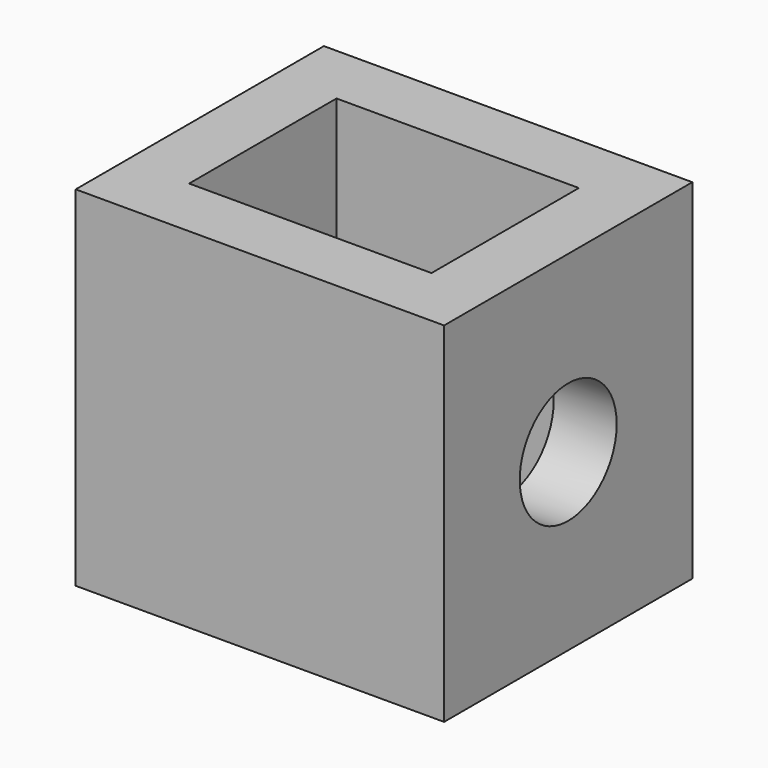
from build123d import *

# Parameters (mm, degrees)
F0_W     = 76
F0_H     = 54
F0_H_2   = 18
F1_DEPTH = 64
F2_T     = -13
F3_R     = 12.5
F4_DEPTH = 103.3


with BuildPart() as f1:
    # F0 (on Front) → F1 (new body)
    with BuildSketch(Plane.XZ):
        with Locations((1.435856, 13.840802)):
            Rectangle(F0_W, F0_H)
        with Locations((1.435856, -22.159198)):
            Rectangle(F0_W, F0_H_2)
    extrude(amount=-F1_DEPTH)

    # F2
    f2_openings = [f1.faces().sort_by_distance(p)[0] for p in [
        (1.435856, 32, 40.840802),
    ]]
    offset(amount=F2_T, openings=f2_openings)

    # F3 (on face) → F4 (cut)
    with BuildSketch(Plane.YZ.offset(39.435856)):
        with Locations((32, 4.840802)):
            Circle(F3_R)
    extrude(amount=-F4_DEPTH, mode=Mode.SUBTRACT)


solid = f1.part
